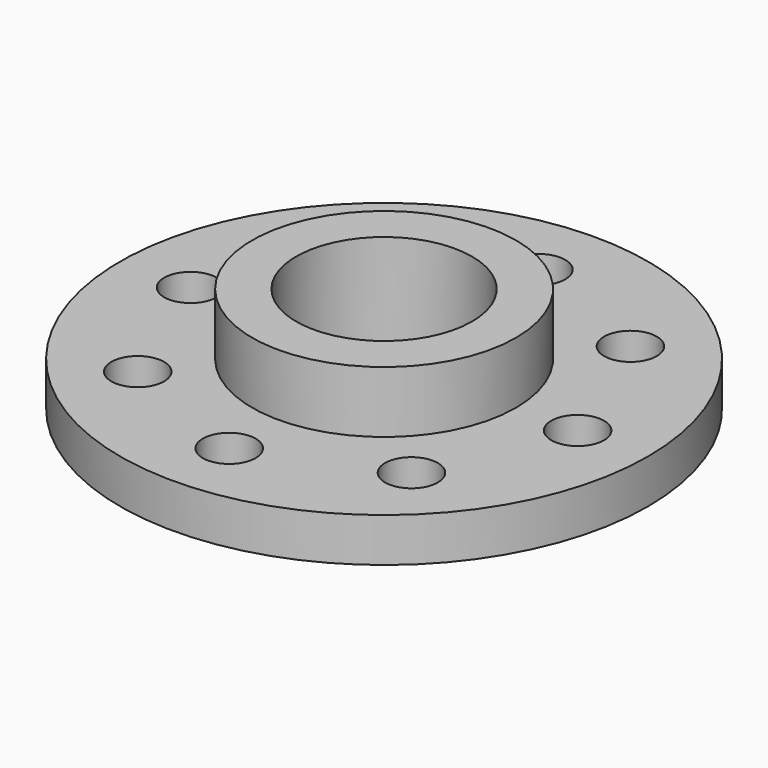
from build123d import *

# Parameters (mm, degrees)
CYLINDER003_R     = 3
CYLINDER003_DEPTH = 10
ARRAY001_COUNT    = 8
CYLINDER002_R     = 10
CYLINDER002_DEPTH = 30
CYLINDER001_R     = 15
CYLINDER001_DEPTH = 12
CYLINDER_R        = 30
CYLINDER_DEPTH    = 5


with BuildPart() as obj1:
    # Cylinder003 → Cylinder003 (new body)
    with BuildSketch(Plane(origin=(22, 0, -1), x_dir=(1, 0, 0), z_dir=(0, 0, 1))):
        Circle(CYLINDER003_R)
    extrude(amount=CYLINDER003_DEPTH)

    # Array001: obj1 ×8 about axis
    array001_axis = Axis((0, 0, 1), (0, 0, 1))


with BuildPart() as obj1_1:
    add(obj1.part)
    for i in range(1, ARRAY001_COUNT):
        add(obj1.part.rotate(array001_axis, i * 360 / ARRAY001_COUNT))


with BuildPart() as tub_int:
    # Cylinder002 → Cylinder002 (new body)
    with BuildSketch(Plane.XY.offset(-1)):
        Circle(CYLINDER002_R)
    extrude(amount=CYLINDER002_DEPTH)


with BuildPart() as tub_ext:
    # Cylinder001 → Cylinder001 (new body)
    with BuildSketch(Plane.XY):
        Circle(CYLINDER001_R)
    extrude(amount=CYLINDER001_DEPTH)


with BuildPart() as brida:
    # Cylinder → Cylinder (new body)
    with BuildSketch(Plane.XY):
        Circle(CYLINDER_R)
    extrude(amount=CYLINDER_DEPTH)

    # Fusion: union tub_ext
    add(tub_ext.part)

    # Cut: cut tub_int
    add(tub_int.part, mode=Mode.SUBTRACT)

    # Cut001: cut obj1
    add(obj1_1.part, mode=Mode.SUBTRACT)


solid = brida.part
